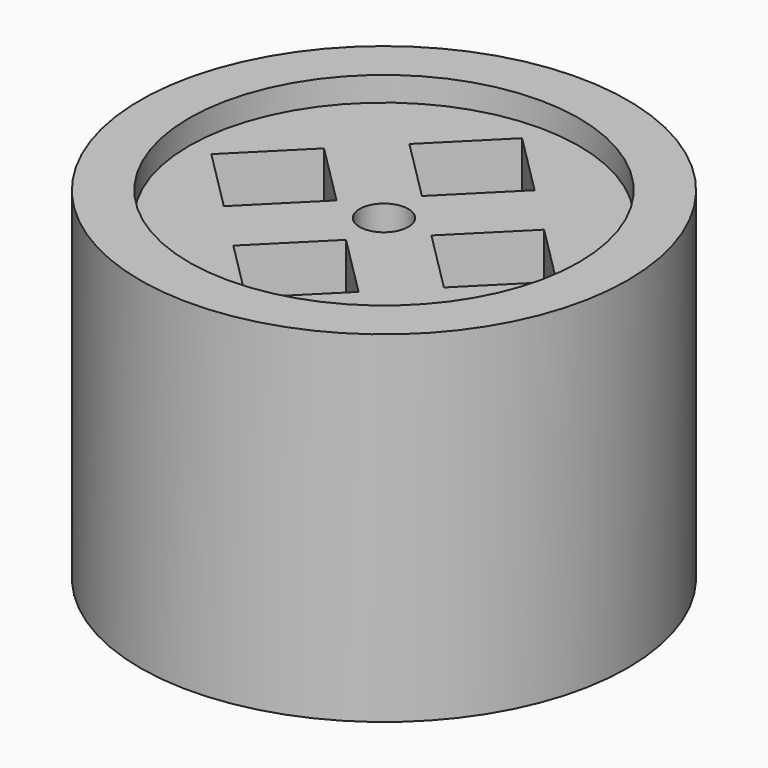
from build123d import *

# Parameters (mm, degrees)
F0_R     = 2
F0_R_2   = 0.25
F1_DEPTH = 1.5
F0_R_3   = 2.5
F2_DEPTH = 1.75


with BuildPart() as f1:
    # F0 (on Top) → F1 (new body, symmetric)
    with BuildSketch(Plane.XY):
        Circle(F0_R)
        Polygon((0.642193, -1.128549), (0, -1.770742), (-0.642193, -1.128549), (0, -0.486356), align=None, mode=Mode.SUBTRACT)
        Polygon((-1.128549, -0.642193), (-1.770742, 0), (-1.128549, 0.642193), (-0.486356, 0), align=None, mode=Mode.SUBTRACT)
        Polygon((-0.642193, 1.128549), (0, 1.770742), (0.642193, 1.128549), (0, 0.486356), align=None, mode=Mode.SUBTRACT)
        Circle(F0_R_2, mode=Mode.SUBTRACT)
        Polygon((1.128549, 0.642193), (1.770742, 0), (1.128549, -0.642193), (0.486356, 0), align=None, mode=Mode.SUBTRACT)
    extrude(amount=F1_DEPTH, both=True)

    # F0 (on Top) → F2 (join, symmetric)
    with BuildSketch(Plane.XY):
        Circle(F0_R_3)
        Circle(F0_R, mode=Mode.SUBTRACT)
    extrude(amount=F2_DEPTH, both=True)


solid = f1.part
